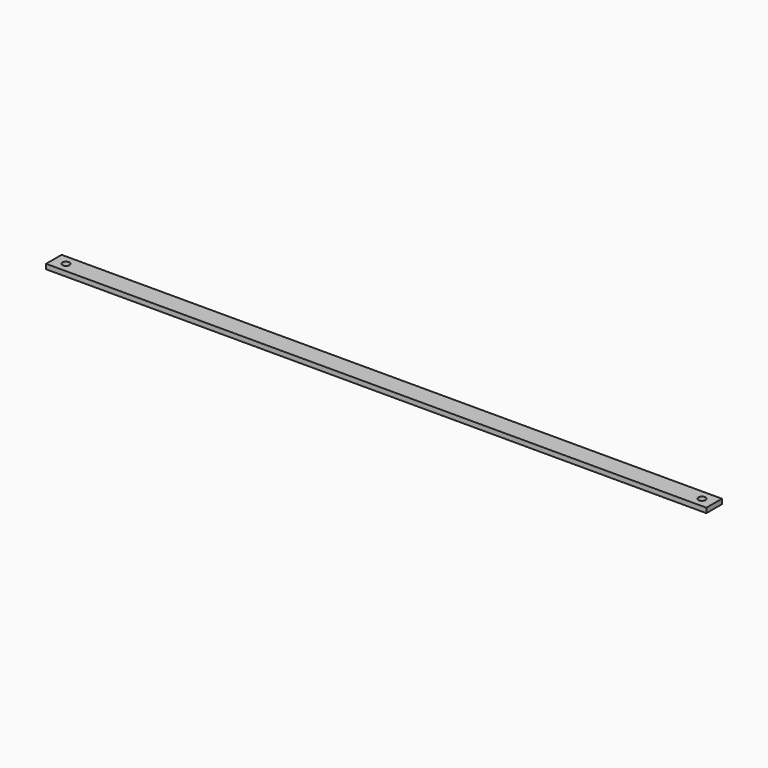
from build123d import *

# Parameters (mm, degrees)
F0_W     = 1725.6125
F0_H     = 50.8
F1_DEPTH = 12.7
F2_R     = 9.525
F3_DEPTH = 25.4


with BuildPart() as f1:
    # F0 (on Top) → F1 (new body)
    with BuildSketch(Plane.XY):
        Rectangle(F0_W, F0_H)
    extrude(amount=F1_DEPTH)

    # F2 (on face) → F3 (cut)
    with BuildSketch(Plane(origin=(0, 0, 0), x_dir=(1, 0, 0), z_dir=(0, 0, -1))):
        with Locations((-831.05625, 0)):
            Circle(F2_R)
        with Locations((831.05625, 0)):
            Circle(F2_R)
    extrude(amount=-F3_DEPTH, mode=Mode.SUBTRACT)


solid = f1.part
